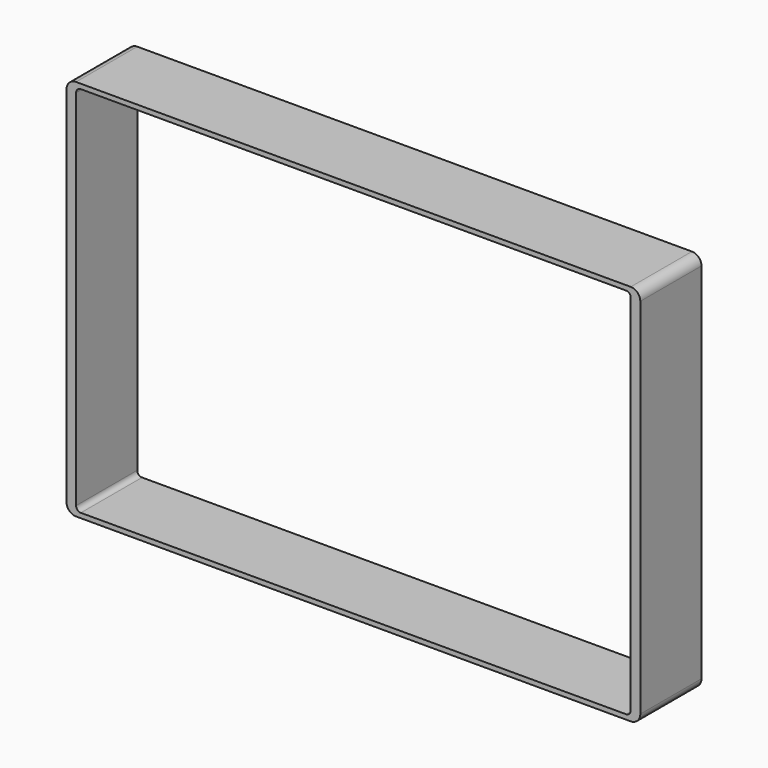
from build123d import *

# Parameters (mm, degrees)
F0_W     = 381
F0_H     = 254
F1_DEPTH = 50.8
F2_R     = 6.35
F3_R     = 6.35
F5_W     = 368.3
F5_H     = 247.65
F6_DEPTH = 50.8
F7_R     = 3.175


with BuildPart() as f1:
    # F0 (on Front) → F1 (new body)
    with BuildSketch(Plane.XZ):
        Rectangle(F0_W, F0_H)
    extrude(amount=F1_DEPTH)

    # F2
    f2_edges = [f1.edges().sort_by_distance(p)[0] for p in [
        (190.5, -25.4, 127),
    ]]
    fillet(f2_edges, radius=F2_R)

    # F3
    f3_edges = [f1.edges().sort_by_distance(p)[0] for p in [
        (190.5, -25.4, -127),
        (-190.5, -25.4, 127),
        (-190.5, -25.4, -127),
    ]]
    fillet(f3_edges, radius=F3_R)


with BuildPart() as f1_1:
    # F4: moved
    add(f1.part.moved(Location((0, 50.8, 0))))

    # F5 (on Front) → F6 (cut)
    with BuildSketch(Plane.XZ):
        Rectangle(F5_W, F5_H)
    extrude(amount=-F6_DEPTH, mode=Mode.SUBTRACT)

    # F7
    f7_edges = [f1_1.edges().sort_by_distance(p)[0] for p in [
        (184.15, 25.4, -123.825),
        (184.15, 25.4, 123.825),
        (-184.15, 25.4, 123.825),
        (-184.15, 25.4, -123.825),
    ]]
    fillet(f7_edges, radius=F7_R)


with BuildPart() as f1_2:
    # F8: moved
    add(f1_1.part.moved(Location((0, 50.8, 0))))


with BuildPart() as f1_3:
    # F9: moved
    add(f1_2.part.moved(Location((0, 0, -101.6))))


with BuildPart() as f1_4:
    # F10: moved
    add(f1_3.part.moved(Location((0, 203.2, 0))))


with BuildPart() as f1_5:
    # F11: moved
    add(f1_4.part.moved(Location((0, 0, 203.2))))


solid = f1_5.part
